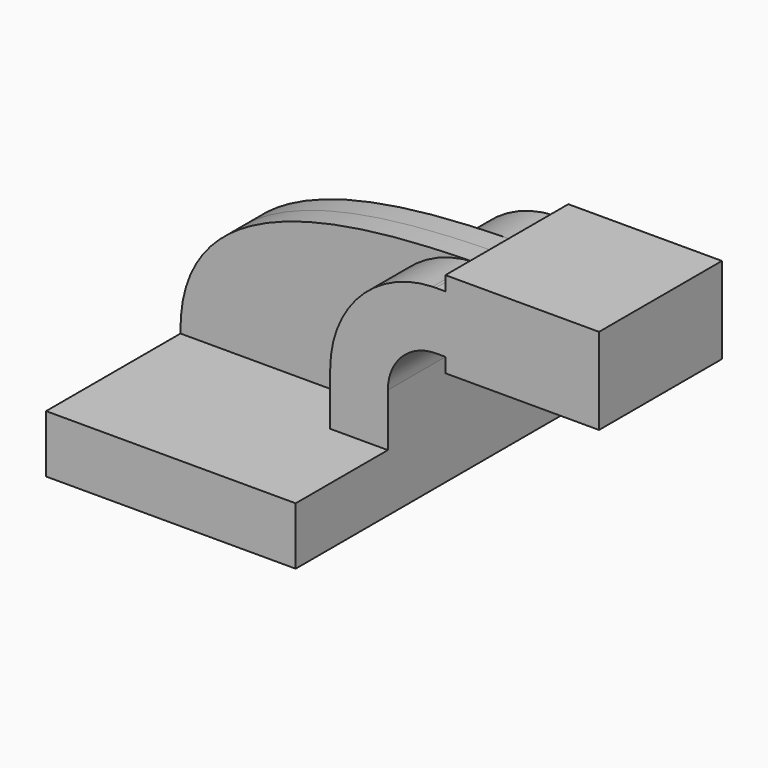
from build123d import *

# Parameters (mm, degrees)
F1_DEPTH = 63.5
F2_DEPTH = 25.4
F3_DEPTH = 7.9375


with BuildPart() as f1:
    # F0 (on Front) → F1 (new body, symmetric)
    with BuildSketch(Plane.XZ):
        Polygon((-41.275, 9.525), (-41.275, -9.525), (41.275, -9.525), (41.275, 9.525), (22.225, 9.525), align=None)
    extrude(amount=F1_DEPTH, both=True)

    # F0 (on Front) → F2 (join, symmetric)
    with BuildSketch(Plane.XZ):
        with BuildLine():
            Line((22.225, 9.525), (41.275, 9.525))
            Line((41.275, 9.525), (41.275, 27.0002))
            ThreePointArc((41.275, 27.0002), (45.92468, 38.22552), (57.15, 42.8752))
            Line((57.15, 42.8752), (60.325, 42.8752))
            Line((60.325, 42.8752), (60.325, 61.9252))
            Line((60.325, 61.9252), (57.15, 61.9252))
            add(Edge.make_bspline(
                [(56.099081, 61.909385), (56.450721, 61.915), (56.801044, 61.920264), (57.15, 61.9252)],
                knots=[110.543175, 110.543175, 110.543175, 110.543175, 111.504536, 111.504536, 111.504536, 111.504536], degree=3))
            ThreePointArc((56.099081, 61.909385), (32.085494, 51.321511), (22.225, 27.0002))
            Line((22.225, 27.0002), (22.225, 9.525))
        make_face()
        Polygon((111.125, 66.675), (88.400421, 66.675), (88.923447, 38.1), (111.125, 38.1), align=None)
        Polygon((60.325, 66.675), (60.325, 61.9252), (60.325, 42.8752), (60.325, 38.1), (88.923447, 38.1), (88.400421, 66.675), align=None)
    extrude(amount=F2_DEPTH, both=True)

    # F0 (on Front) → F3 (join, symmetric)
    with BuildSketch(Plane.XZ):
        with BuildLine():
            add(Edge.make_bspline(
                [(-41.275, 9.525), (-42.176598, 55.966002), (15.665411, 61.263678), (56.099081, 61.909385)],
                knots=[0, 0, 0, 0, 110.543175, 110.543175, 110.543175, 110.543175], degree=3))
            Line((-41.275, 9.525), (22.225, 9.525))
            Line((22.225, 9.525), (22.225, 27.0002))
            ThreePointArc((22.225, 27.0002), (32.085494, 51.321511), (56.099081, 61.909385))
        make_face()
    extrude(amount=F3_DEPTH, both=True)


solid = f1.part
